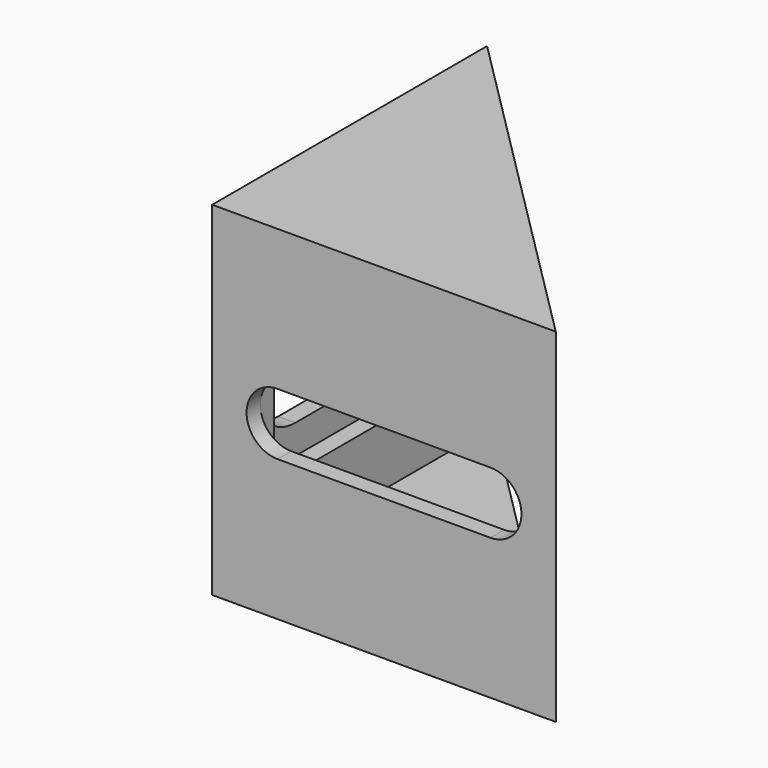
from build123d import *

# Parameters (mm, degrees)
PAD_DEPTH            = 20
SKETCH001_W          = 18
SKETCH001_H          = 16
POCKET_DEPTH         = 18.001
POCKET001_DEPTH      = 2.001
POCKET002_DEPTH      = 1
POCKET002_DEPTH_BACK = -5
POCKET003_DEPTH      = 2.001
POCKET004_DEPTH      = 1


with BuildPart() as part:
    # Sketch → Pad (new body)
    with BuildSketch(Plane.XY):
        Polygon((0, 0), (0, 20), (20, 0), align=None)
    extrude(amount=PAD_DEPTH)

    # Sketch001 → Pocket (cut, through all)
    with BuildSketch(Plane.XZ.offset(-2)):
        with Locations((11, 10)):
            Rectangle(SKETCH001_W, SKETCH001_H)
    extrude(amount=-POCKET_DEPTH, mode=Mode.SUBTRACT)

    # Sketch002 (on Face9 of Pocket) → Pocket001 (cut, through all)
    with BuildSketch(Plane.YZ.offset(2)):
        with BuildLine():
            ThreePointArc((4.8, 12.8), (2, 10), (4.8, 7.2))
            Line((4.8, 7.2), (15.2, 7.2))
            ThreePointArc((15.2, 7.2), (18, 10), (15.2, 12.8))
            Line((4.8, 12.8), (15.2, 12.8))
        make_face()
    extrude(amount=-POCKET001_DEPTH, mode=Mode.SUBTRACT)

    # Sketch003 (on Face13 of Pocket001) → Pocket002 (cut, two sides)
    with BuildSketch(Plane.YZ.offset(2)) as pocket002_sk:
        with BuildLine():
            ThreePointArc((15.2, 5.5), (19.7, 10), (15.2, 14.5))
            Line((4.8, 14.5), (15.2, 14.5))
            ThreePointArc((4.8, 14.5), (3.317186, 14.248678), (2, 13.522783))
            Line((2, 13.522783), (2, 6.477217))
            ThreePointArc((2, 6.477217), (3.317186, 5.751322), (4.8, 5.5))
            Line((4.8, 5.5), (15.2, 5.5))
        make_face()
    extrude(amount=-POCKET002_DEPTH, mode=Mode.SUBTRACT)
    extrude(pocket002_sk.sketch, amount=-POCKET002_DEPTH_BACK, mode=Mode.SUBTRACT)

    # Sketch004 (on Face21 of Pocket002) → Pocket003 (cut, through all)
    with BuildSketch(Plane(origin=(0, 2, 0), x_dir=(-1, 0, 0), z_dir=(0, 1, 0))):
        with BuildLine():
            ThreePointArc((-16.2, 11.8), (-18, 10), (-16.2, 8.2))
            Line((-16.2, 8.2), (-3.8, 8.2))
            ThreePointArc((-3.8, 8.2), (-2, 10), (-3.8, 11.8))
            Line((-16.2, 11.8), (-3.8, 11.8))
        make_face()
    extrude(amount=-POCKET003_DEPTH, mode=Mode.SUBTRACT)

    # Sketch005 (on Face15 of Pocket003) → Pocket004 (cut)
    with BuildSketch(Plane(origin=(0, 2, 0), x_dir=(-1, 0, 0), z_dir=(0, 1, 0))):
        with BuildLine():
            ThreePointArc((-16.2, 13), (-19.2, 10), (-16.2, 7))
            Line((-16.2, 7), (-3.8, 7))
            ThreePointArc((-3.8, 7), (-2.851317, 7.15395), (-2, 7.6))
            Line((-2, 12.4), (-2, 7.6))
            ThreePointArc((-2, 12.4), (-2.851317, 12.84605), (-3.8, 13))
            Line((-16.2, 13), (-3.8, 13))
        make_face()
    extrude(amount=-POCKET004_DEPTH, mode=Mode.SUBTRACT)


solid = part.part
